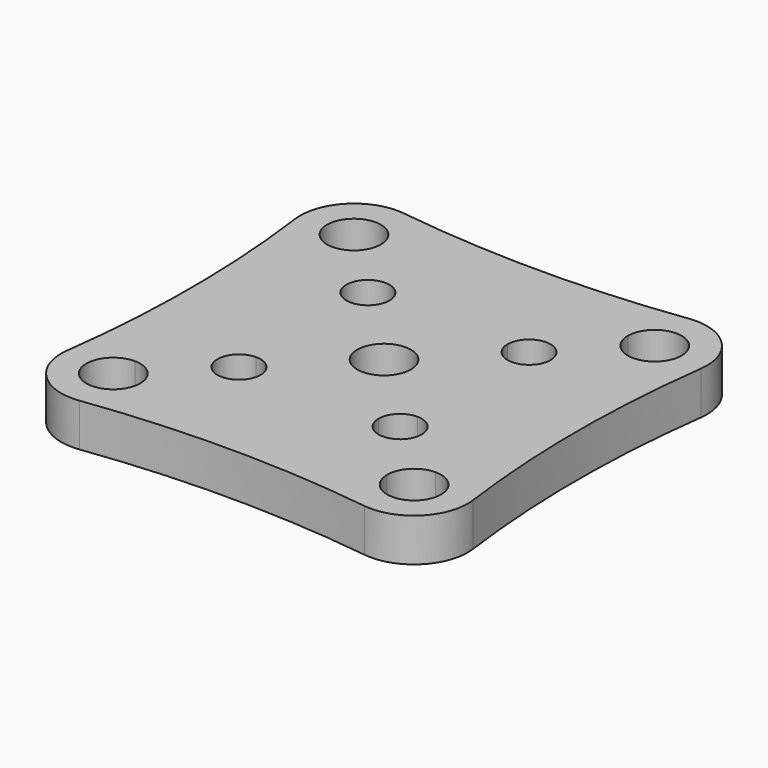
from build123d import *

# Parameters (mm, degrees)
F0_R     = 2.5
F1_DEPTH = 4
F2_R     = 5


with BuildPart() as f1:
    # F0 (on Top) → F1 (new body)
    with BuildSketch(Plane.XY):
        with BuildLine():
            ThreePointArc((-20, -20), (0, -18), (20, -20))
            ThreePointArc((20, -20), (18, 0), (20, 20))
            ThreePointArc((20, 20), (0, 18), (-20, 20))
            ThreePointArc((-20, 20), (-18, 0), (-20, -20))
        make_face()
        with BuildLine():
            ThreePointArc((16.5, 14), (15.767766953, 12.232233047), (14, 11.5))
            Line((14, 11.5), (14, -11.5))
            ThreePointArc((14, -11.5), (15.767766953, -12.232233047), (16.5, -14))
            ThreePointArc((16.5, -14), (14, -16.5), (11.5, -14))
            Line((11.5, -14), (-11.5, -14))
            ThreePointArc((-11.5, -14), (-15.767766953, -15.767766953), (-14, -11.5))
            Line((-14, -11.5), (-14, 11.5))
            ThreePointArc((-14, 11.5), (-15.767766953, 15.767766953), (-11.5, 14))
            Line((-11.5, 14), (11.5, 14))
            ThreePointArc((11.5, 14), (14, 16.5), (16.5, 14))
        make_face(mode=Mode.SUBTRACT)
        with BuildLine():
            Line((14, -11.5), (14, 11.5))
            ThreePointArc((14, 11.5), (12.232233047, 12.232233047), (11.5, 14))
            Line((11.5, 14), (-11.5, 14))
            ThreePointArc((-11.5, 14), (-12.232233047, 12.232233047), (-14, 11.5))
            Line((-14, 11.5), (-14, -11.5))
            ThreePointArc((-14, -11.5), (-12.232233047, -12.232233047), (-11.5, -14))
            Line((-11.5, -14), (11.5, -14))
            ThreePointArc((11.5, -14), (12.232233047, -12.232233047), (14, -11.5))
        make_face()
        with BuildLine():
            Line((2.5, -7.5), (-2.5, -7.5))
            ThreePointArc((-2.5, -7.5), (-11.0355339059, -11.0355339059), (-7.5, -2.5))
            Line((-7.5, -2.5), (-7.5, 2.5))
            ThreePointArc((-7.5, 2.5), (-11.0355339059, 11.0355339059), (-2.5, 7.5))
            Line((-2.5, 7.5), (2.5, 7.5))
            ThreePointArc((2.5, 7.5), (7.5, 12.5), (12.5, 7.5))
            ThreePointArc((12.5, 7.5), (11.0355339059, 3.9644660941), (7.5, 2.5))
            Line((7.5, 2.5), (7.5, -2.5))
            ThreePointArc((7.5, -2.5), (11.0355339059, -3.9644660941), (12.5, -7.5))
            ThreePointArc((12.5, -7.5), (7.5, -12.5), (2.5, -7.5))
        make_face(mode=Mode.SUBTRACT)
        with BuildLine():
            ThreePointArc((-7.5, -2.5), (-3.9644660941, -3.9644660941), (-2.5, -7.5))
            Line((-2.5, -7.5), (2.5, -7.5))
            ThreePointArc((2.5, -7.5), (3.9644660941, -3.9644660941), (7.5, -2.5))
            Line((7.5, -2.5), (7.5, 2.5))
            ThreePointArc((7.5, 2.5), (3.9644660941, 3.9644660941), (2.5, 7.5))
            Line((2.5, 7.5), (-2.5, 7.5))
            ThreePointArc((-2.5, 7.5), (-3.9644660941, 3.9644660941), (-7.5, 2.5))
            Line((-7.5, 2.5), (-7.5, -2.5))
        make_face()
        Circle(F0_R, mode=Mode.SUBTRACT)
        with BuildLine():
            Line((-7.5, 5.5), (-7.5, 2.5))
            ThreePointArc((-7.5, 2.5), (-3.9644660941, 3.9644660941), (-2.5, 7.5))
            Line((-2.5, 7.5), (-5.5, 7.5))
            ThreePointArc((-5.5, 7.5), (-6.0857864376, 6.0857864376), (-7.5, 5.5))
        make_face()
        with BuildLine():
            ThreePointArc((-2.5, 7.5), (-11.0355339059, 11.0355339059), (-7.5, 2.5))
            Line((-7.5, 2.5), (-7.5, 5.5))
            ThreePointArc((-7.5, 5.5), (-8.9142135624, 8.9142135624), (-5.5, 7.5))
            Line((-5.5, 7.5), (-2.5, 7.5))
        make_face()
        with BuildLine():
            Line((7.5, 5.5), (7.5, 2.5))
            ThreePointArc((7.5, 2.5), (11.0355339059, 3.9644660941), (12.5, 7.5))
            ThreePointArc((12.5, 7.5), (7.5, 12.5), (2.5, 7.5))
            Line((2.5, 7.5), (5.5, 7.5))
            ThreePointArc((5.5, 7.5), (7.5, 9.5), (9.5, 7.5))
            ThreePointArc((9.5, 7.5), (8.9142135624, 6.0857864376), (7.5, 5.5))
        make_face()
        with BuildLine():
            ThreePointArc((2.5, 7.5), (3.9644660941, 3.9644660941), (7.5, 2.5))
            Line((7.5, 2.5), (7.5, 5.5))
            ThreePointArc((7.5, 5.5), (6.0857864376, 6.0857864376), (5.5, 7.5))
            Line((5.5, 7.5), (2.5, 7.5))
        make_face()
        with BuildLine():
            ThreePointArc((-7.5, -2.5), (-11.0355339059, -11.0355339059), (-2.5, -7.5))
            Line((-2.5, -7.5), (-5.5, -7.5))
            ThreePointArc((-5.5, -7.5), (-8.9142135624, -8.9142135624), (-7.5, -5.5))
            Line((-7.5, -5.5), (-7.5, -2.5))
        make_face()
        with BuildLine():
            Line((5.5, -7.5), (2.5, -7.5))
            ThreePointArc((2.5, -7.5), (7.5, -12.5), (12.5, -7.5))
            ThreePointArc((12.5, -7.5), (11.0355339059, -3.9644660941), (7.5, -2.5))
            Line((7.5, -2.5), (7.5, -5.5))
            ThreePointArc((7.5, -5.5), (8.9142135624, -6.0857864376), (9.5, -7.5))
            ThreePointArc((9.5, -7.5), (7.5, -9.5), (5.5, -7.5))
        make_face()
        with BuildLine():
            ThreePointArc((7.5, -2.5), (3.9644660941, -3.9644660941), (2.5, -7.5))
            Line((2.5, -7.5), (5.5, -7.5))
            ThreePointArc((5.5, -7.5), (6.0857864376, -6.0857864376), (7.5, -5.5))
            Line((7.5, -5.5), (7.5, -2.5))
        make_face()
        with BuildLine():
            Line((-5.5, -7.5), (-2.5, -7.5))
            ThreePointArc((-2.5, -7.5), (-3.9644660941, -3.9644660941), (-7.5, -2.5))
            Line((-7.5, -2.5), (-7.5, -5.5))
            ThreePointArc((-7.5, -5.5), (-6.0857864376, -6.0857864376), (-5.5, -7.5))
        make_face()
    extrude(amount=F1_DEPTH)

    # F2
    f2_edges = [f1.edges().sort_by_distance(p)[0] for p in [
        (20, -20, 2),
        (20, 20, 2),
        (-20, -20, 2),
        (-20, 20, 2),
    ]]
    fillet(f2_edges, radius=F2_R)


solid = f1.part
